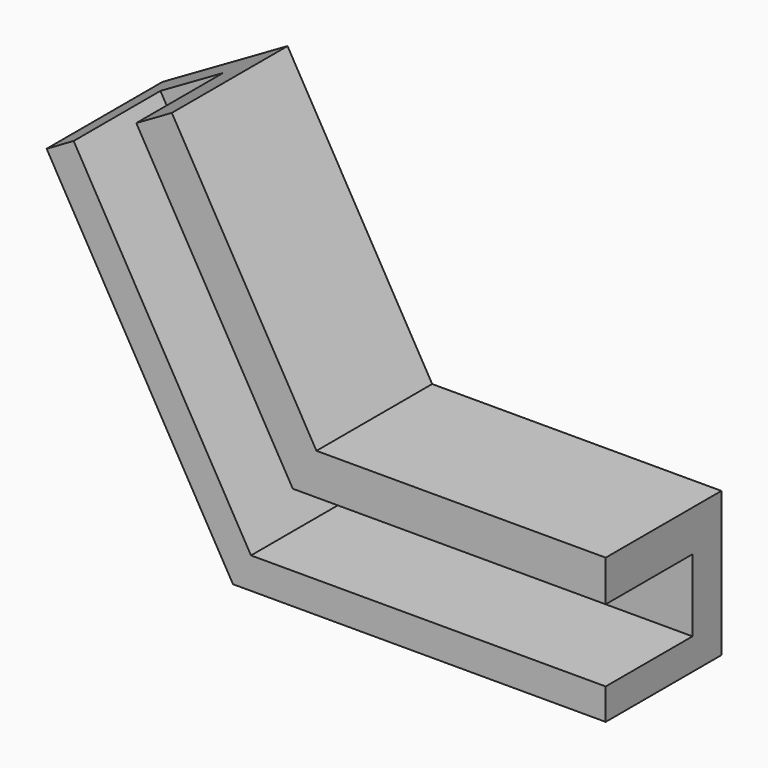
from build123d import *

# Parameters (mm, degrees)
F1_DEPTH = 25.4
F3_DEPTH = 19.05


with BuildPart() as f1:
    # F0 (on Front) → F1 (new body)
    with BuildSketch(Plane.XZ):
        Polygon((-25.4, 43.994091), (-47.397045, 31.294091), (-14.664697, -25.4), (50.8, -25.4), (50.8, 0), (0, 0), align=None)
    extrude(amount=F1_DEPTH)

    # F2 (on face) → F3 (cut)
    with BuildSketch(Plane.XZ.offset(25.4)):
        Polygon((-31.648493, 40.386522), (-42.647015, 34.036522), (-11.49801, -19.915138), (50.8, -19.915138), (50.8, -7.215138), (-4.165662, -7.215138), align=None)
    extrude(amount=-F3_DEPTH, mode=Mode.SUBTRACT)


solid = f1.part
